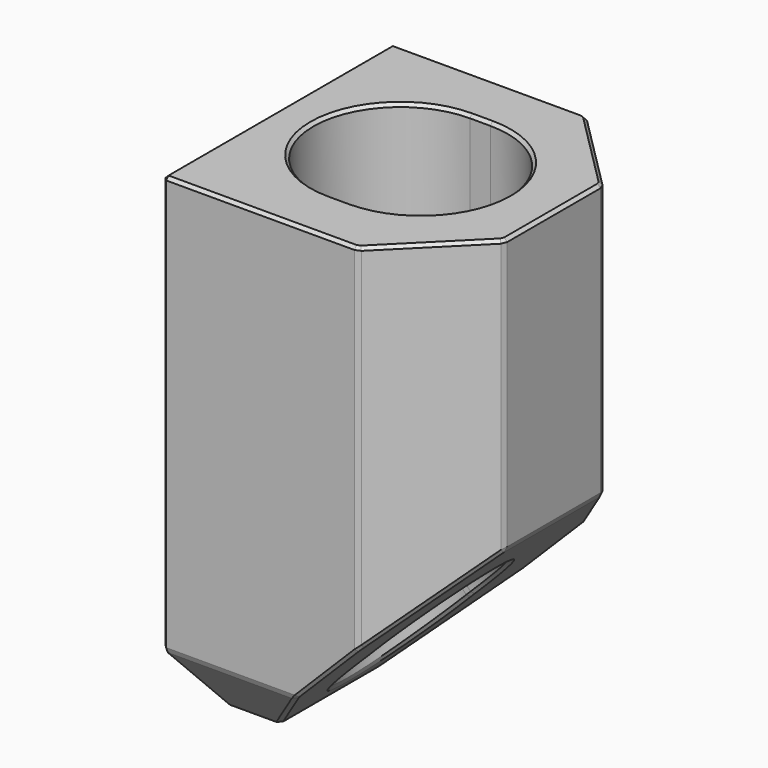
from build123d import *

# Parameters (mm, degrees)
PAD003_DEPTH        = 14
POCKET006_DEPTH     = 5
HOLE001_D           = 3.4
HOLE001_DEPTH       = 25
HOLE001_CBORE_D     = 6.1
HOLE001_CBORE_DEPTH = 14
HOLE002_D           = 3.4
HOLE002_DEPTH       = 25
HOLE002_CBORE_D     = 6.1
HOLE002_CBORE_DEPTH = 11
CHAMFER_SIZE        = 4
CHAMFER001_SIZE     = 4
CHAMFER002_SIZE     = 0.15


with BuildPart() as part:
    # Sketch013 → Pad003 (new body)
    with BuildSketch(Plane.XZ):
        Polygon((51.500001, 11.5), (65.000001, 11.5), (65.000001, -1.899999), (54, -12.9), (51.500001, -12.9), align=None)
    extrude(amount=PAD003_DEPTH)

    # Sketch014 (on Face1 of Pad003) → Pocket006 (cut)
    with BuildSketch(Plane(origin=(0, 0, 11.5), x_dir=(-1, 0, 0), z_dir=(0, 0, 1))):
        with BuildLine():
            ThreePointArc((-58.500001, 11.25), (-62.750001, 7), (-58.500001, 2.75))
            Line((-58.500001, 2.75), (-57.500001, 2.75))
            ThreePointArc((-57.500001, 2.75), (-53.250001, 7), (-57.500001, 11.25))
            Line((-57.500001, 11.25), (-58.500001, 11.25))
        make_face()
    extrude(amount=-POCKET006_DEPTH, mode=Mode.SUBTRACT)

    # Hole001
    with Locations(Plane(origin=(0, 0, -12.9), x_dir=(1, 0, 0), z_dir=(0, 0, -1))):
        with Locations((58, 7)):
            CounterBoreHole(HOLE001_D / 2, HOLE001_CBORE_D / 2, HOLE001_CBORE_DEPTH, depth=HOLE001_DEPTH)

    # Hole002
    with Locations(Plane.YZ.offset(65)):
        with Locations((-7, -7.9)):
            CounterBoreHole(HOLE002_D / 2, HOLE002_CBORE_D / 2, HOLE002_CBORE_DEPTH, depth=HOLE002_DEPTH)

    # Chamfer
    chamfer_edges = [part.edges().sort_by_distance(p)[0] for p in [
        (65.000001, -14, 4.8),
        (65.000001, 0, 4.8),
    ]]
    chamfer(chamfer_edges, length=CHAMFER_SIZE)

    # Chamfer001
    chamfer001_edges = [part.edges().sort_by_distance(p)[0] for p in [
        (52.75, -14, -12.9),
        (52.75, 0, -12.9),
    ]]
    chamfer(chamfer001_edges, length=CHAMFER001_SIZE)

    # Chamfer002
    chamfer002_edges = [part.edges().sort_by_distance(p)[0] for p in [
        (51.500001, 0, 1.3),
        (54.75, 0, -8.9),
        (56.250001, 0, 11.5),
        (59.5, 0, -7.4),
        (61.000001, 0, 2.8),
        (51.500001, -7, -12.9),
        (51.500001, -2, -10.9),
        (51.500001, -12, -10.9),
        (51.500001, -14, 1.3),
        (51.500001, -7, 11.5),
        (51.500001, -8.7, -7.9),
        (52.75, -4, -12.9),
        (56, -2, -10.9),
        (63.000001, -2, 11.5),
        (65.000001, -7, 11.5),
        (56.250001, -14, 11.5),
        (63.000001, -12, 11.5),
        (62.750001, -7, 11.5),
        (58.000001, -2.75, 11.5),
        (53.250001, -7, 11.5),
        (58.000001, -11.25, 11.5),
        (63.000001, -2, -3.899999),
        (54, -7, -12.9),
        (65.000001, -7, -1.899999),
        (56, -12, -10.9),
        (63.000001, -12, -3.899999),
        (59.5, -14, -7.4),
        (56.249486, -4.502361, -10.650514),
        (58.749573, -3.960298, -8.150427),
        (62.029529, -7.352781, -4.870471),
        (56.249486, -9.497639, -10.650514),
        (65.000001, -4, 4.8),
        (52.75, -10, -12.9),
        (54.75, -14, -8.9),
        (61.000001, -14, 2.8),
        (52.75, -5.3, -7.9),
        (54, -8.7, -7.9),
        (65.000001, -10, 4.8),
        (58.500001, -11.25, 9),
        (58.500001, -2.75, 9),
        (62.750001, -7, 6.5),
        (57.500001, -2.75, 9),
        (58.000001, -2.75, 6.5),
        (57.500001, -11.25, 9),
        (53.250001, -7, 6.5),
        (58.000001, -11.25, 6.5),
        (56.029551, -9.328053, -9.870449),
        (58.250427, -10.039702, -8.150427),
        (58.250427, -3.960298, -8.150427),
        (56.029551, -4.671947, -9.870449),
        (59.970449, -9.328053, -5.929551),
        (59.970449, -4.671947, -5.929551),
        (54, -10.05, -7.9),
        (59.7, -7, 6.5),
        (56.029551, -9.328053, -5.929551),
        (56.029551, -4.671947, -5.929551),
        (56, -3.95, -7.9),
        (54.95, -7, -1.875),
        (61.05, -7, 1.1),
        (56.3, -7, 3.8),
        (59.7, -7, 1.1),
    ]]
    chamfer(chamfer002_edges, length=CHAMFER002_SIZE)


solid = part.part
